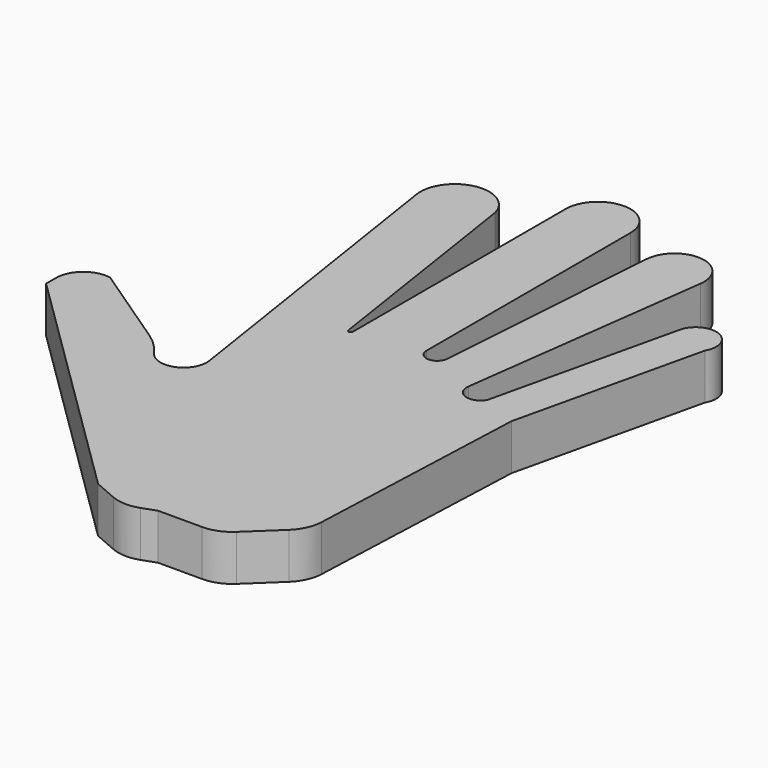
from build123d import *

# Parameters (mm, degrees)
F2_DEPTH = 7.62


with BuildPart() as f2:
    # F0 (on Top) → F2 (new body)
    with BuildSketch(Plane.XY):
        with BuildLine():
            ThreePointArc((-23.5357079655, 60.113042593), (-30.2454210783, 64.2457756232), (-34.7310379148, 57.7666573226))
            Line((-34.7310379148, 57.7666573226), (-26.4902733646, 4.3604136363))
            ThreePointArc((-26.4902733646, 4.3604136363), (-28.8640611312, 0.1943133413), (-33.4599719683, 1.5613772045))
            ThreePointArc((-33.4599719683, 1.5613772045), (-35.0785366802, 3.4725706683), (-37.0194858383, 5.0553304569))
            Line((-37.0194858383, 5.0553304569), (-51.1479377747, 14.5578626543))
            ThreePointArc((-51.1479377747, 14.5578626543), (-54.938754442, 13.6491168294), (-56.6173754632, 10.1308301091))
            Line((-56.6173754632, 10.1308301091), (-56.6173754632, 8.0494266003))
            Line((-56.6173754632, 8.0494266003), (-16.1364711821, -31.7350588739))
            Line((-16.1364711821, -31.7350588739), (-12.2621996492, -33.4195259751))
            ThreePointArc((-12.2621996492, -33.4195259751), (-9.9352680974, -33.9428224896), (-7.5794191189, -33.5707670106))
            Line((-7.5794191189, -33.5707670106), (-5.3406401906, -32.7648067825))
            Line((-5.3406401906, -32.7648067825), (2.0005224682, -32.7648067825))
            ThreePointArc((2.0005224682, -32.7648067825), (4.3510519912, -32.3137482945), (6.3676519732, -31.0246527547))
            Line((6.3676519732, -31.0246527547), (11.2955290824, -26.3562370092))
            ThreePointArc((11.2955290824, -26.3562370092), (12.7098340581, -24.3727031559), (13.2732275699, -22.0026287135))
            Line((13.2732275699, -22.0026287135), (14.7917633876, 15.5985886231))
            Line((14.7917633876, 15.5985886231), (22.0184158534, 46.8564033508))
            ThreePointArc((22.0184158534, 46.8564033508), (20.3429041375, 51.7210198481), (15.7856713104, 49.3328276164))
            Line((15.7856713104, 49.3328276164), (8.6142982273, 18.3141156696))
            ThreePointArc((8.6142982273, 18.3141156696), (5.8800612713, 17.2294749175), (4.3127752073, 19.7186739224))
            Line((4.3127752073, 19.7186739224), (9.7877811641, 61.1661635339))
            ThreePointArc((9.7877811641, 61.1661635339), (5.43127774, 66.7532188415), (0, 62.2039847076))
            Line((0, 62.2039847076), (-2.6894125622, 24.2047067732))
            ThreePointArc((-2.6894125622, 24.2047067732), (-4.461782823, 22.4323365124), (-6.2341530838, 24.2047067732))
            Line((-6.2341530838, 24.2047067732), (-6.2341530838, 66.6218549013))
            ThreePointArc((-6.2341530838, 66.6218549013), (-11.6295390312, 72.0172408487), (-17.0249249786, 66.6218549013))
            Line((-17.0249249786, 66.6218549013), (-17.0249249786, 22.3221201244))
            ThreePointArc((-17.0249249786, 22.3221201244), (-17.387521641, 22.0108104301), (-17.7501183034, 22.3221201244))
            Line((-17.7501183034, 22.3221201244), (-23.5357079655, 60.113042593))
        make_face()
    extrude(amount=F2_DEPTH)


with BuildPart() as f2b:
    # F1 (on face) → F2, piece 2 (new body)
    with BuildSketch(Plane.XY):
        with BuildLine():
            Line((-17.7501183034, 22.3221201244), (-23.5357079655, 60.113042593))
            ThreePointArc((-23.5357079655, 60.113042593), (-30.2454210783, 64.2457756232), (-34.7310379148, 57.7666573226))
            Line((-34.7310379148, 57.7666573226), (-26.4902733646, 4.3604136363))
            ThreePointArc((-26.4902733646, 4.3604136363), (-28.8640611312, 0.1943133413), (-33.4599719683, 1.5613772045))
            ThreePointArc((-33.4599719683, 1.5613772045), (-35.0785366802, 3.4725706683), (-37.0194858383, 5.0553304569))
            Line((-37.0194858383, 5.0553304569), (-51.1479377747, 14.5578626543))
            ThreePointArc((-51.1479377747, 14.5578626543), (-54.938754442, 13.6491168294), (-56.6173754632, 10.1308301091))
            Line((-56.6173754632, 10.1308301091), (-56.6173754632, 8.0494266003))
            Line((-56.6173754632, 8.0494266003), (-16.1364711821, -31.7350588739))
            Line((-16.1364711821, -31.7350588739), (-12.2621996492, -33.4195259751))
            ThreePointArc((-12.2621996492, -33.4195259751), (-9.9352680974, -33.9428224896), (-7.5794191189, -33.5707670106))
            Line((-7.5794191189, -33.5707670106), (-5.3406401906, -32.7648067825))
            Line((-5.3406401906, -32.7648067825), (2.0005224682, -32.7648067825))
            ThreePointArc((2.0005224682, -32.7648067825), (4.3510519912, -32.3137482945), (6.3676519732, -31.0246527547))
            Line((6.3676519732, -31.0246527547), (11.2955290824, -26.3562370092))
            ThreePointArc((11.2955290824, -26.3562370092), (12.7098340581, -24.3727031559), (13.2732275699, -22.0026287135))
            Line((13.2732275699, -22.0026287135), (14.7917633876, 15.5985886231))
            Line((14.7917633876, 15.5985886231), (22.0184158534, 46.8564033508))
            ThreePointArc((22.0184158534, 46.8564033508), (20.3429041375, 51.7210198481), (15.7856713104, 49.3328276164))
            Line((15.7856713104, 49.3328276164), (8.6142982273, 18.3141156696))
            ThreePointArc((8.6142982273, 18.3141156696), (5.8800612713, 17.2294749175), (4.3127752073, 19.7186739224))
            Line((4.3127752073, 19.7186739224), (9.7877811641, 61.1661635339))
            ThreePointArc((9.7877811641, 61.1661635339), (5.43127774, 66.7532188415), (0, 62.2039847076))
            Line((0, 62.2039847076), (-2.6894125622, 24.2047067732))
            ThreePointArc((-2.6894125622, 24.2047067732), (-4.461782823, 22.4323365124), (-6.2341530838, 24.2047067732))
            Line((-6.2341530838, 24.2047067732), (-6.2341530838, 66.6218549013))
            ThreePointArc((-6.2341530838, 66.6218549013), (-11.6295390312, 72.0172408487), (-17.0249249786, 66.6218549013))
            Line((-17.0249249786, 66.6218549013), (-17.0249249786, 22.3221201244))
            ThreePointArc((-17.0249249786, 22.3221201244), (-17.387521641, 22.0108104301), (-17.7501183034, 22.3221201244))
        make_face()
    extrude(amount=F2_DEPTH)


solid = Compound([f2.part, f2b.part])
